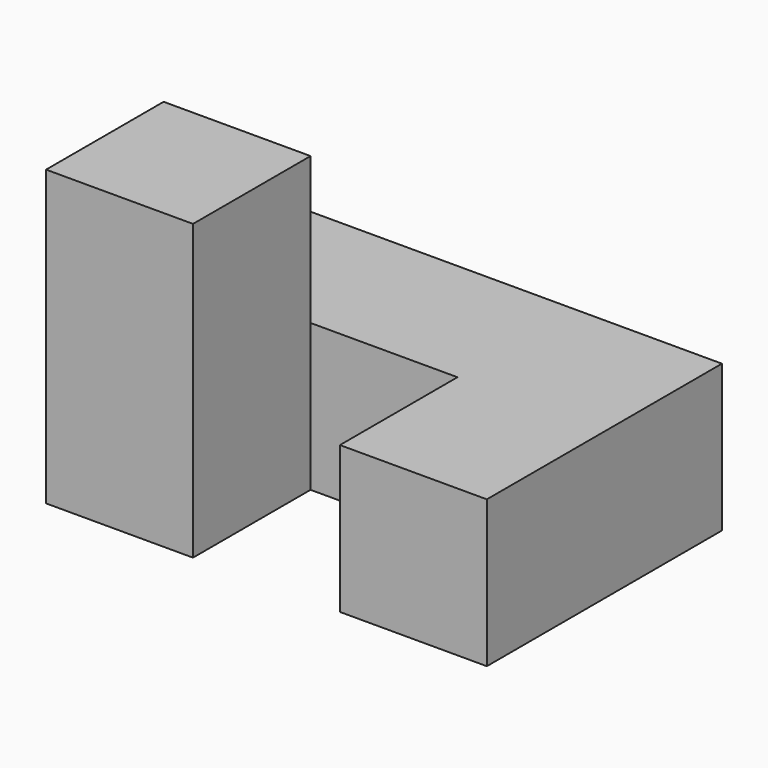
from build123d import *

# Parameters (mm, degrees)
F0_W     = 25.4
F0_H     = 25.4
F1_DEPTH = 25.4
F2_DEPTH = 50.8
F3_W     = 25.4
F3_H     = 25.4
F4_DEPTH = 25.4


with BuildPart() as f1:
    # F0 (on Front) → F1 (new body)
    with BuildSketch(Plane.XZ):
        with Locations((-1.210593, -7.368315)):
            Rectangle(F0_W, F0_H)
    extrude(amount=F1_DEPTH)

    # F0 (on Front) → F2 (join)
    with BuildSketch(Plane.XZ):
        with Locations((-26.610593, -7.368315)):
            Rectangle(F0_W, F0_H)
        with Locations((24.189407, -7.368315)):
            Rectangle(F0_W, F0_H)
    extrude(amount=F2_DEPTH)

    # F3 (on face) → F4 (join)
    with BuildSketch(Plane.XY.offset(5.331685)):
        with Locations((-26.610593, -38.1)):
            Rectangle(F3_W, F3_H)
    extrude(amount=F4_DEPTH)


solid = f1.part
